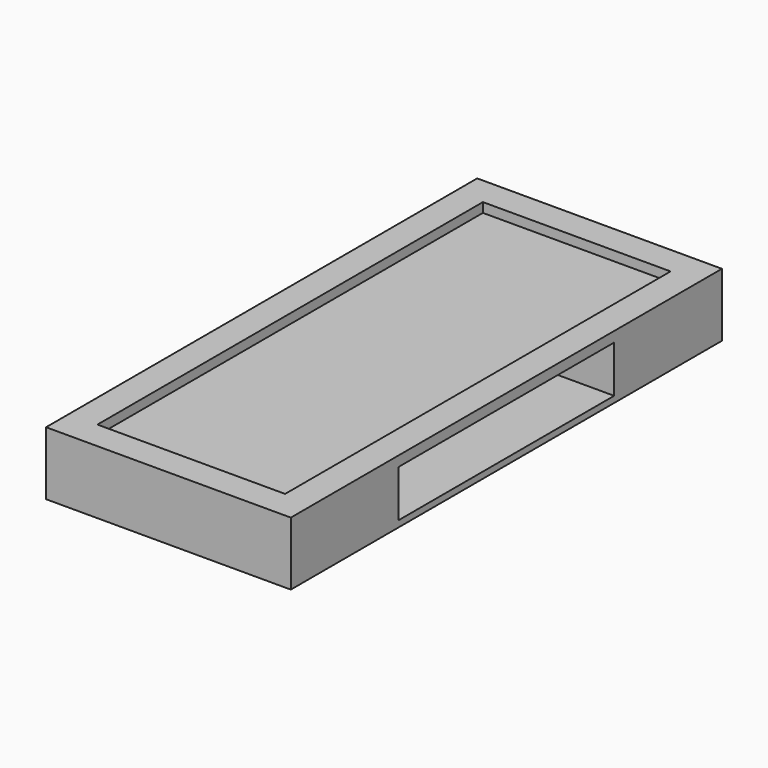
from build123d import *

# Parameters (mm, degrees)
F0_W     = 49.022
F0_H     = 107.95
F1_DEPTH = 12.7
F2_R     = 5.715
F3_DEPTH = 2.54
F4_W     = 37.592
F4_H     = 96.52
F5_DEPTH = 1.905
F6_W     = 53.975
F6_H     = 9.398
F7_DEPTH = 15.875
F8_W     = 53.975
F8_H     = 9.398
F9_DEPTH = 15.875


with BuildPart() as f1:
    # F0 (on Top) → F1 (new body)
    with BuildSketch(Plane.XY):
        Rectangle(F0_W, F0_H)
    extrude(amount=F1_DEPTH)

    # F2 (on face) → F3 (cut)
    with BuildSketch(Plane(origin=(0, 0, 0), x_dir=(1, 0, 0), z_dir=(0, 0, -1))):
        Circle(F2_R)
    extrude(amount=-F3_DEPTH, mode=Mode.SUBTRACT)

    # F4 (on face) → F5 (cut)
    with BuildSketch(Plane.XY.offset(12.7)):
        Rectangle(F4_W, F4_H)
    extrude(amount=-F5_DEPTH, mode=Mode.SUBTRACT)

    # F6 (on face) → F7 (cut)
    with BuildSketch(Plane(origin=(-24.511, 0, 0), x_dir=(0, -1, 0), z_dir=(-1, 0, 0))):
        with Locations((0, 5.969)):
            Rectangle(F6_W, F6_H)
    extrude(amount=-F7_DEPTH, mode=Mode.SUBTRACT)

    # F8 (on face) → F9 (cut)
    with BuildSketch(Plane.YZ.offset(24.511)):
        with Locations((0, 5.969)):
            Rectangle(F8_W, F8_H)
    extrude(amount=-F9_DEPTH, mode=Mode.SUBTRACT)


solid = f1.part
